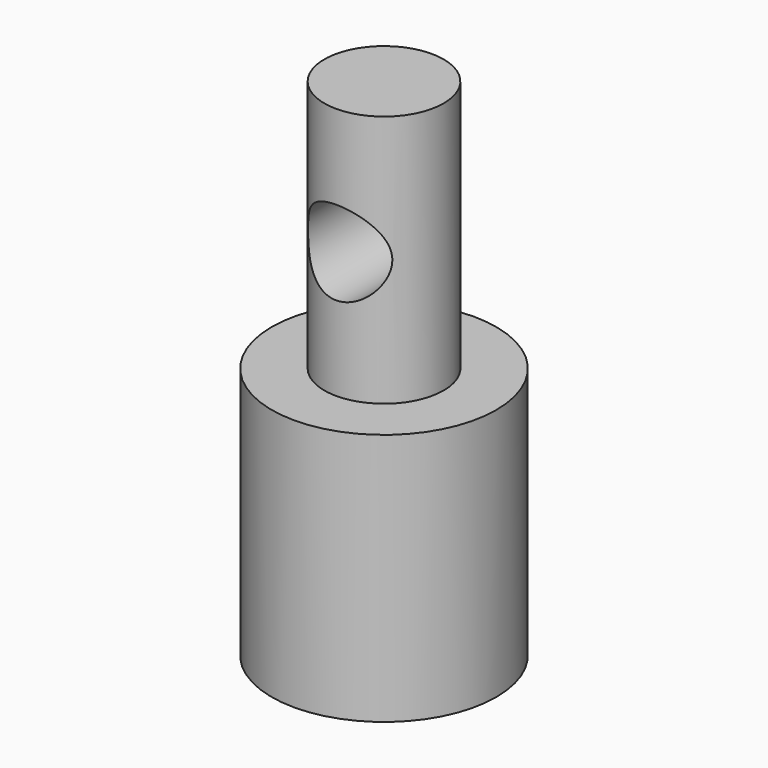
from build123d import *

# Parameters (mm, degrees)
F0_R     = 12.7
F1_DEPTH = 28.575
F2_R     = 6.7437
F3_DEPTH = 28.575
F5_R     = 4.7625
F6_DEPTH = 19.4447


with BuildPart() as f1:
    # F0 (on Top) → F1 (new body)
    with BuildSketch(Plane.XY):
        Circle(F0_R)
    extrude(amount=F1_DEPTH)

    # F2 (on face) → F3 (join)
    with BuildSketch(Plane.XY.offset(28.575)):
        Circle(F2_R)
    extrude(amount=F3_DEPTH)

    # F5 (on offset) → F6 (cut, through all)
    with BuildSketch(Plane.XZ.offset(6.7437)):
        with Locations((0, 42.8498)):
            Circle(F5_R)
    extrude(amount=-F6_DEPTH, mode=Mode.SUBTRACT)


solid = f1.part
